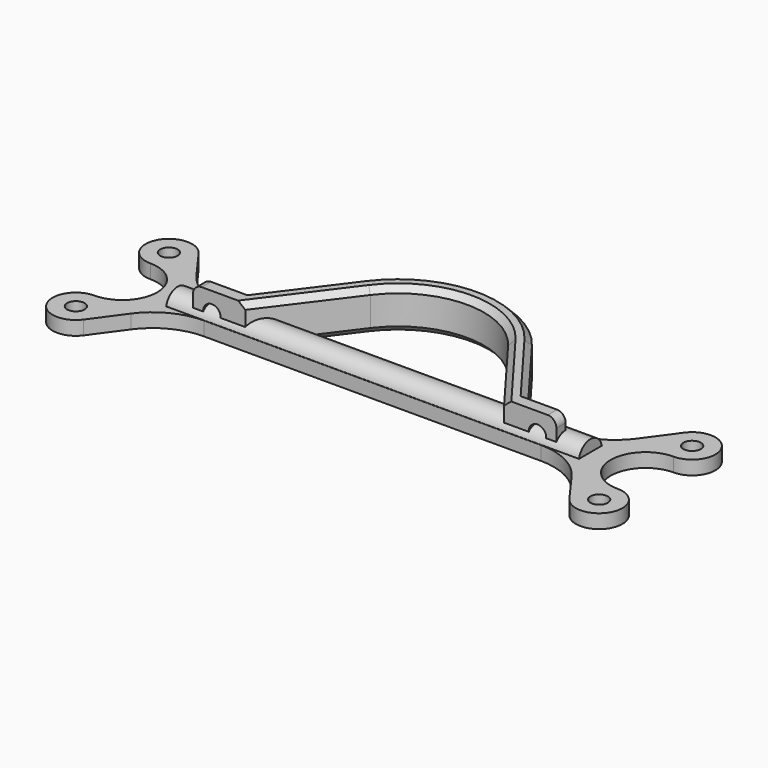
from build123d import *

# Parameters (mm, degrees)
PAD_DEPTH         = 7
SKETCH002_R       = 1.5
POCKET_DEPTH      = 0.001
POCKET_DEPTH_BACK = -23.001
FILLET_R          = 1.5
CHAMFER_SIZE      = 1
SKETCH003_R       = 1.5
PAD001_DEPTH      = 2.4
PAD002_DEPTH      = 35.5


with BuildPart() as turtle_fin:
    # Sketch001 → Pad (new body)
    with BuildSketch(Plane.XY):
        with BuildLine():
            Line((-31.25, 0), (-24.75, 0))
            Line((-24.75, 0), (-14.4, 13.8))
            ThreePointArc((14.4, 13.8), (0, 21), (-14.4, 13.8))
            Line((24.75, 0), (14.4, 13.8))
            Line((24.75, 0), (31.25, 0))
            Line((31.25, 0), (31.25, -2))
            Line((31.25, -2), (22.25, -2))
            Line((22.25, -2), (11.84, 11.88))
            ThreePointArc((11.84, 11.88), (0, 17.8), (-11.84, 11.88))
            Line((-22.25, -2), (-11.84, 11.88))
            Line((-31.25, -2), (-22.25, -2))
            Line((-31.25, 0), (-31.25, -2))
        make_face()
    extrude(amount=PAD_DEPTH)

    # Sketch002 (on Face8 of Pad) → Pocket (cut, two sides)
    with BuildSketch(Plane(origin=(0, -2, 3.5), x_dir=(0, 0, 1), z_dir=(0, 1, 0))) as pocket_sk:
        with Locations((0, 28)):
            Circle(SKETCH002_R)
        with Locations((0, -28)):
            Circle(SKETCH002_R)
    extrude(amount=-POCKET_DEPTH, mode=Mode.SUBTRACT)
    extrude(pocket_sk.sketch, amount=-POCKET_DEPTH_BACK, mode=Mode.SUBTRACT)

    # Fillet
    fillet_edges = [turtle_fin.edges().sort_by_distance(p)[0] for p in [
        (31.25, -1, 0),
        (31.25, -1, 7),
        (-31.25, -1, 0),
        (-31.25, -1, 7),
    ]]
    fillet(fillet_edges, radius=FILLET_R)

    # Chamfer
    chamfer_edges = [turtle_fin.edges().sort_by_distance(p)[0] for p in [
        (17.045, 4.94, 0),
        (0, 17.8, 0),
        (-17.045, 4.94, 0),
        (-17.045, 4.94, 7),
        (0, 17.8, 7),
        (17.045, 4.94, 7),
        (-19.575, 6.9, 0),
        (0, 21, 0),
        (19.575, 6.9, 0),
        (0, 21, 7),
        (-19.575, 6.9, 7),
        (19.575, 6.9, 7),
    ]]
    chamfer(chamfer_edges, length=CHAMFER_SIZE)


with BuildPart() as turtle_fin_v2:
    # Sketch003 → Pad001 (new body)
    with BuildSketch(Plane.XY):
        with BuildLine():
            ThreePointArc((41.764476, -12.351889), (48.564236, -11.81555), (45, -6))
            ThreePointArc((45, 6), (39, 0), (45, -6))
            ThreePointArc((45, 6), (48.564236, 11.81555), (41.764476, 12.351889))
            Line((41.764476, 12.351889), (37.897692, 7.032305))
            ThreePointArc((29, 2.5), (33.992762, 3.698351), (37.897692, 7.032305))
            Line((29, 2.5), (-29, 2.5))
            ThreePointArc((-37.897692, 7.032305), (-33.992762, 3.698351), (-29, 2.5))
            Line((-41.764476, 12.351889), (-37.897692, 7.032305))
            ThreePointArc((-41.764476, 12.351889), (-48.564236, 11.81555), (-45, 6))
            ThreePointArc((-45, -6), (-39, 0), (-45, 6))
            ThreePointArc((-45, -6), (-48.564236, -11.81555), (-41.764476, -12.351889))
            Line((-41.764476, -12.351889), (-37.897692, -7.032305))
            ThreePointArc((-29, -2.5), (-33.992762, -3.698351), (-37.897692, -7.032305))
            Line((-29, -2.5), (29, -2.5))
            ThreePointArc((37.897692, -7.032305), (33.992762, -3.698351), (29, -2.5))
            Line((41.764476, -12.351889), (37.897692, -7.032305))
        make_face()
        with Locations((-45, 10)):
            Circle(SKETCH003_R, mode=Mode.SUBTRACT)
        with Locations((-45, -10)):
            Circle(SKETCH003_R, mode=Mode.SUBTRACT)
        with Locations((45, 10)):
            Circle(SKETCH003_R, mode=Mode.SUBTRACT)
        with Locations((45, -10)):
            Circle(SKETCH003_R, mode=Mode.SUBTRACT)
    extrude(amount=PAD001_DEPTH)

    # Sketch004 → Pad002 (join, symmetric)
    with BuildSketch(Plane.YZ):
        with BuildLine():
            ThreePointArc((2.44949, 2.4), (0, 4.4), (-2.44949, 2.4))
            Line((2.44949, 2.4), (-2.44949, 2.4))
        make_face()
    extrude(amount=PAD002_DEPTH, both=True)


solid = Compound([turtle_fin.part, turtle_fin_v2.part])
